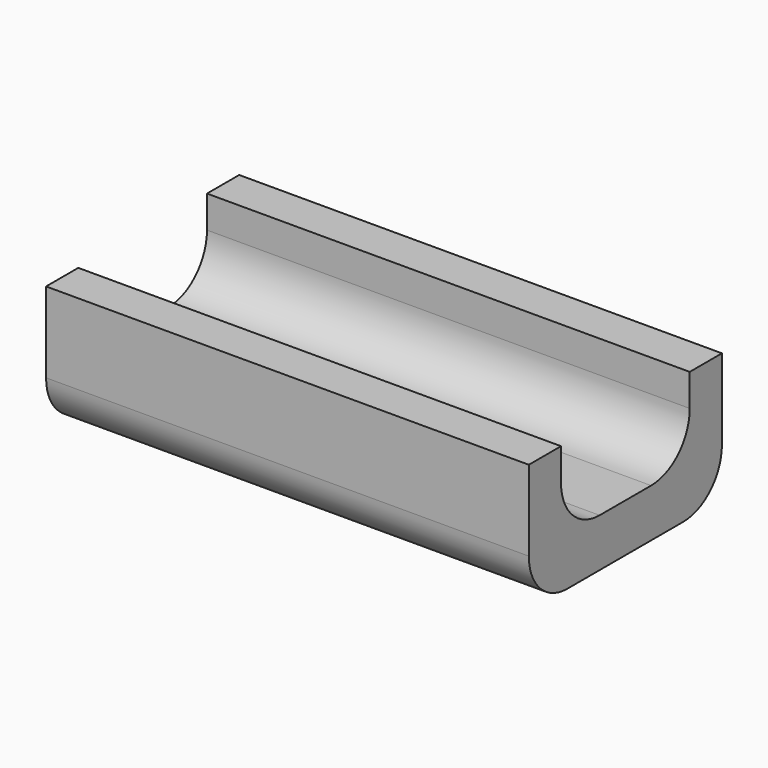
from build123d import *

# Parameters (mm, degrees)
F0_W     = 30
F0_H     = 15
F1_DEPTH = 3
F2_W     = 30
F2_H     = 2.5
F3_DEPTH = 5
F4_R     = 3


with BuildPart() as f1:
    # F0 (on Top) → F1 (new body)
    with BuildSketch(Plane.XY):
        Rectangle(F0_W, F0_H)
    extrude(amount=F1_DEPTH)

    # F2 (on face) → F3 (join)
    with BuildSketch(Plane.XY.offset(3)):
        with Locations((0, 6.25)):
            Rectangle(F2_W, F2_H)
        with Locations((0, -6.25)):
            Rectangle(F2_W, F2_H)
    extrude(amount=F3_DEPTH)

    # F4
    f4_edges = [f1.edges().sort_by_distance(p)[0] for p in [
        (0, 5, 3),
        (0, -5, 3),
        (0, 7.5, 0),
        (0, -7.5, 0),
    ]]
    fillet(f4_edges, radius=F4_R)


solid = f1.part
